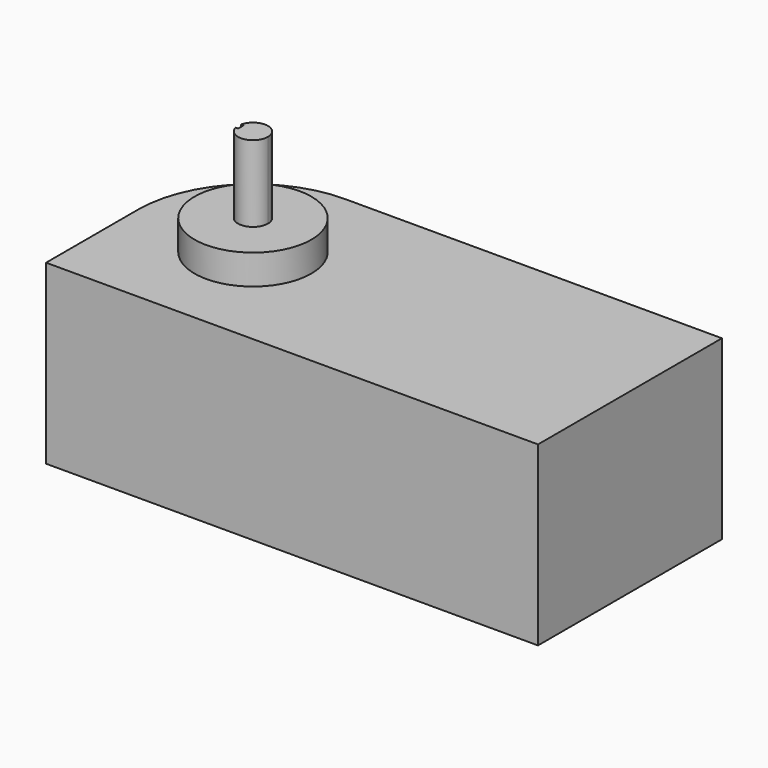
from build123d import *

# Parameters (mm, degrees)
F0_R     = 12.7
F1_DEPTH = 38.5
F2_DEPTH = 23.11
F3_DEPTH = 6.5


with BuildPart() as f1:
    # F0 (on Top) → F1 (new body)
    with BuildSketch(Plane.XY):
        with BuildLine():
            Line((53.5, -25), (53.5, 25))
            Line((53.5, 25), (-28.5, 25))
            ThreePointArc((-28.5, 25), (-46.1776695297, 17.6776695297), (-53.5, 0))
            Line((-53.5, 0), (-53.5, -25))
            Line((-53.5, -25), (53.5, -25))
        make_face()
        with Locations((-28.5, 0)):
            Circle(F0_R, mode=Mode.SUBTRACT)
        with Locations((-28.5, 0)):
            Circle(F0_R)
        with BuildLine():
            ThreePointArc((-31.6598892386, 0.76), (-28.117338286, 3.2273936873), (-25.25, 0))
            ThreePointArc((-25.25, 0), (-28.117338286, -3.2273936873), (-31.6598892386, -0.76))
            ThreePointArc((-31.6598892386, -0.76), (-31.75, 0), (-31.6598892386, 0.76))
        make_face(mode=Mode.SUBTRACT)
        with BuildLine():
            ThreePointArc((-31.6598892386, -0.76), (-28.117338286, -3.2273936873), (-25.25, 0))
            ThreePointArc((-25.25, 0), (-28.117338286, 3.2273936873), (-31.6598892386, 0.76))
            Line((-31.6598892386, 0.76), (-31.1098892386, 0.76))
            Line((-31.1098892386, 0.76), (-31.1098892386, -0.76))
            Line((-31.1098892386, -0.76), (-31.6598892386, -0.76))
        make_face()
        with BuildLine():
            Line((-31.1098892386, 0.76), (-31.6598892386, 0.76))
            ThreePointArc((-31.6598892386, 0.76), (-31.75, 0), (-31.6598892386, -0.76))
            Line((-31.6598892386, -0.76), (-31.1098892386, -0.76))
            Line((-31.1098892386, -0.76), (-31.1098892386, 0.76))
        make_face()
    extrude(amount=-F1_DEPTH)

    # F0 (on Top) → F2 (join)
    with BuildSketch(Plane.XY):
        with BuildLine():
            ThreePointArc((-31.6598892386, -0.76), (-28.117338286, -3.2273936873), (-25.25, 0))
            ThreePointArc((-25.25, 0), (-28.117338286, 3.2273936873), (-31.6598892386, 0.76))
            Line((-31.6598892386, 0.76), (-31.1098892386, 0.76))
            Line((-31.1098892386, 0.76), (-31.1098892386, -0.76))
            Line((-31.1098892386, -0.76), (-31.6598892386, -0.76))
        make_face()
    extrude(amount=F2_DEPTH)

    # F0 (on Top) → F3 (join)
    with BuildSketch(Plane.XY):
        with Locations((-28.5, 0)):
            Circle(F0_R)
        with BuildLine():
            ThreePointArc((-31.6598892386, 0.76), (-28.117338286, 3.2273936873), (-25.25, 0))
            ThreePointArc((-25.25, 0), (-28.117338286, -3.2273936873), (-31.6598892386, -0.76))
            ThreePointArc((-31.6598892386, -0.76), (-31.75, 0), (-31.6598892386, 0.76))
        make_face(mode=Mode.SUBTRACT)
        with BuildLine():
            Line((-31.1098892386, 0.76), (-31.6598892386, 0.76))
            ThreePointArc((-31.6598892386, 0.76), (-31.75, 0), (-31.6598892386, -0.76))
            Line((-31.6598892386, -0.76), (-31.1098892386, -0.76))
            Line((-31.1098892386, -0.76), (-31.1098892386, 0.76))
        make_face()
    extrude(amount=F3_DEPTH)


solid = f1.part
